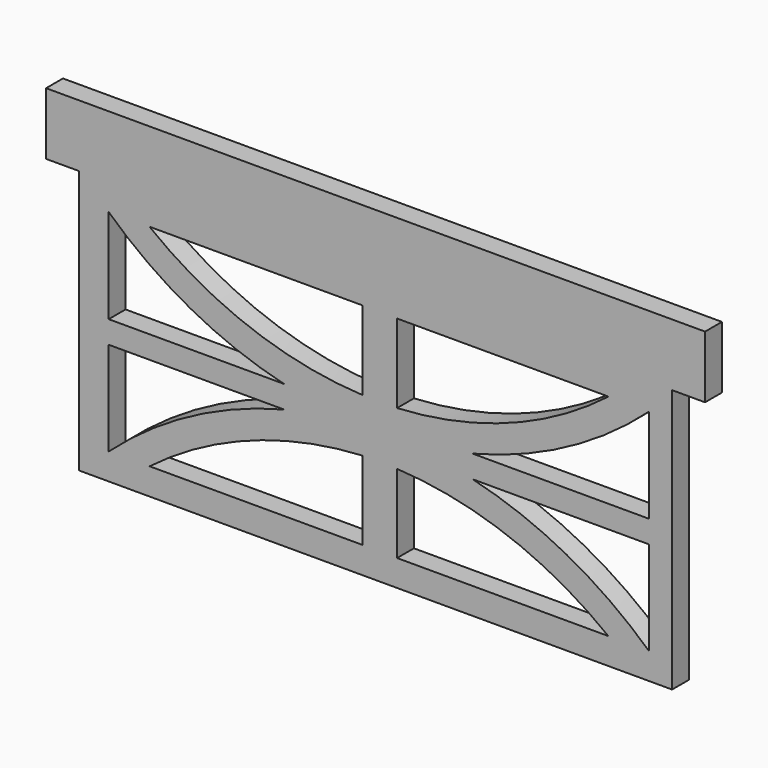
from build123d import *

# Parameters (mm, degrees)
F1_DEPTH = 4.064


with BuildPart() as f1:
    # F0 (on Front) → F1 (new body)
    with BuildSketch(Plane.XZ):
        Polygon((-52.674211, 24.848312), (-52.674211, -25.951688), (61.625789, -25.951688), (61.625789, 24.848312), (67.975789, 24.848312), (67.975789, 36.847737), (-59.024211, 36.847737), (-59.024211, 24.848312), align=None)
        with BuildLine():
            Line((-46.955819, -2.758361), (-13.158102, -2.758361))
            ThreePointArc((-13.158102, -2.758361), (-31.163737, -9.749885), (-46.955819, -20.871688))
            Line((-46.955819, -20.871688), (-46.955819, -2.758361))
        make_face(mode=Mode.SUBTRACT)
        with BuildLine():
            ThreePointArc((-39.077444, -20.815162), (-19.723028, -10.149205), (1.915863, -5.66429))
            Line((1.915863, -5.66429), (1.915863, -20.815162))
            Line((1.915863, -20.815162), (-39.077444, -20.815162))
        make_face(mode=Mode.SUBTRACT)
        with BuildLine():
            Line((8.617761, -20.871688), (8.617761, -5.733473))
            ThreePointArc((8.617761, -5.733473), (30.135672, -10.192547), (49.341396, -20.871688))
            Line((49.341396, -20.871688), (8.617761, -20.871688))
        make_face(mode=Mode.SUBTRACT)
        with BuildLine():
            ThreePointArc((57.184181, -20.871688), (41.317836, -9.677537), (23.17236, -2.764389))
            Line((23.17236, -2.764389), (57.184181, -2.764389))
            Line((57.184181, -2.764389), (57.184181, -20.871688))
        make_face(mode=Mode.SUBTRACT)
        with BuildLine():
            ThreePointArc((-46.955819, 19.768312), (-31.216749, 8.518474), (-13.158102, 1.578558))
            Line((-13.158102, 1.578558), (-46.955819, 1.578558))
            Line((-46.955819, 1.578558), (-46.955819, 19.768312))
        make_face(mode=Mode.SUBTRACT)
        with BuildLine():
            Line((1.915863, 19.824838), (1.915863, 4.614419))
            ThreePointArc((1.915863, 4.614419), (-19.762998, 9.05545), (-39.094734, 19.824838))
            Line((-39.094734, 19.824838), (1.915863, 19.824838))
        make_face(mode=Mode.SUBTRACT)
        with BuildLine():
            Line((8.617761, 4.57058), (8.617761, 19.768312))
            Line((8.617761, 19.768312), (49.358686, 19.768312))
            ThreePointArc((49.358686, 19.768312), (30.154425, 9.043182), (8.617761, 4.57058))
        make_face(mode=Mode.SUBTRACT)
        with BuildLine():
            Line((57.184181, 1.578558), (23.17236, 1.578558))
            ThreePointArc((23.17236, 1.578558), (41.295047, 8.585248), (57.184181, 19.768312))
            Line((57.184181, 19.768312), (57.184181, 1.578558))
        make_face(mode=Mode.SUBTRACT)
    extrude(amount=F1_DEPTH)


solid = f1.part
